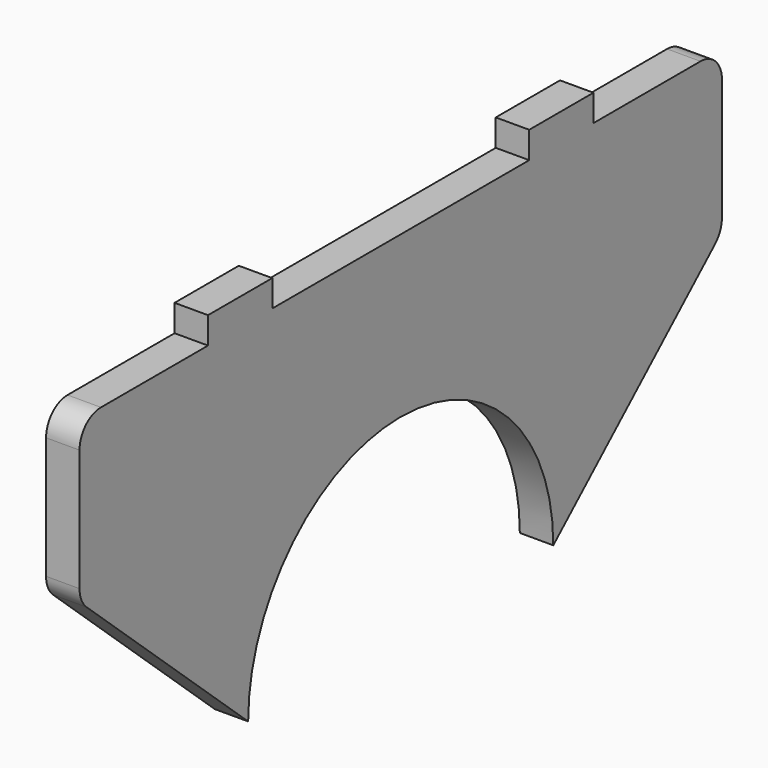
from build123d import *

# Parameters (mm, degrees)
F1_DEPTH = 7.9375


with BuildPart() as f1:
    # F0 (on Right) → F1 (new body)
    with BuildSketch(Plane.YZ):
        with BuildLine():
            ThreePointArc((-45.24375, 0), (0, 45.24375), (45.24375, 0))
            Line((45.24375, 0), (93.1603, 43.353069))
            ThreePointArc((93.1603, 43.353069), (94.704111, 45.486011), (95.25, 48.061821))
            Line((95.25, 48.061821), (95.25, 76.99375))
            ThreePointArc((95.25, 76.99375), (93.390128, 81.483878), (88.9, 83.34375))
            Line((88.9, 83.34375), (57.15, 83.34375))
            Line((57.15, 83.34375), (57.15, 89.69375))
            Line((57.15, 89.69375), (38.1, 89.69375))
            Line((38.1, 89.69375), (38.1, 83.34375))
            Line((38.1, 83.34375), (-38.1, 83.34375))
            Line((-38.1, 83.34375), (-38.1, 89.69375))
            Line((-38.1, 89.69375), (-57.15, 89.69375))
            Line((-57.15, 89.69375), (-57.15, 83.34375))
            Line((-57.15, 83.34375), (-88.9, 83.34375))
            ThreePointArc((-88.9, 83.34375), (-93.390128, 81.483878), (-95.25, 76.99375))
            Line((-95.25, 76.99375), (-95.25, 48.061821))
            ThreePointArc((-95.25, 48.061821), (-94.704111, 45.486011), (-93.1603, 43.353069))
            Line((-93.1603, 43.353069), (-45.24375, 0))
        make_face()
    extrude(amount=F1_DEPTH)


solid = f1.part
